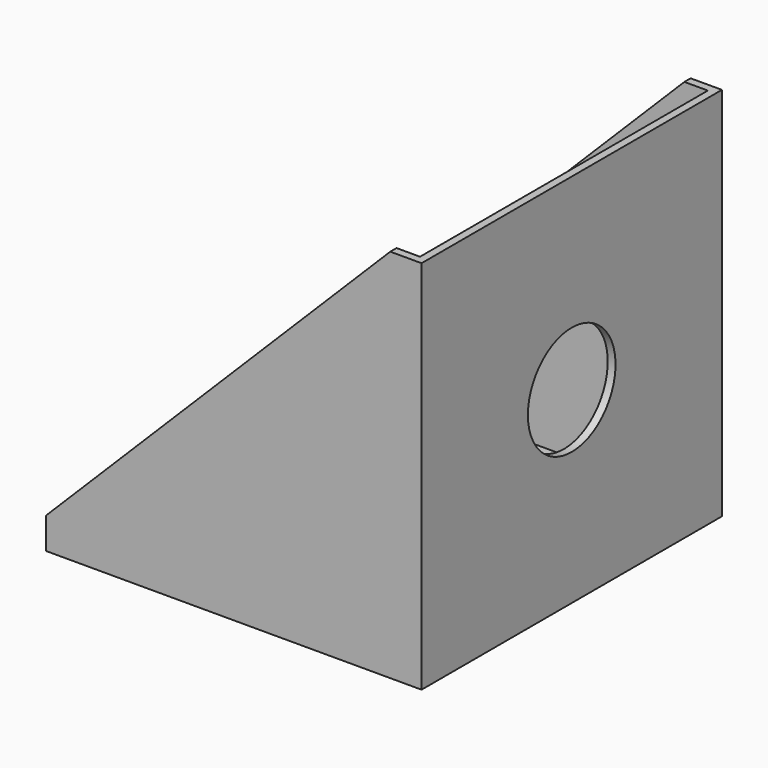
from build123d import *

# Parameters (mm, degrees)
F1_DEPTH = 76.2
F2_T     = -1.5875
F3_R     = 11.1125
F4_DEPTH = 1.5885


with BuildPart() as f1:
    # F0 (on Front) → F1 (new body)
    with BuildSketch(Plane.XZ):
        Polygon((-76.2, 0), (0, 0), (0, 76.2), (-6.35, 76.2), (-76.2, 6.35), align=None)
    extrude(amount=F1_DEPTH)

    # F2
    f2_openings = [f1.faces().sort_by_distance(p)[0] for p in [
        (-41.275, -38.1, 41.275),
        (-76.2, -38.1, 3.175),
        (-3.175, -38.1, 76.2),
    ]]
    offset(amount=F2_T, openings=f2_openings)

    # F3 (on face) → F4 (cut, through all)
    with BuildSketch(Plane(origin=(-1.5875, 0, 0), x_dir=(0, -1, 0), z_dir=(-1, 0, 0))):
        with Locations((38.1, 38.1)):
            Circle(F3_R)
    extrude(amount=-F4_DEPTH, mode=Mode.SUBTRACT)


solid = f1.part
